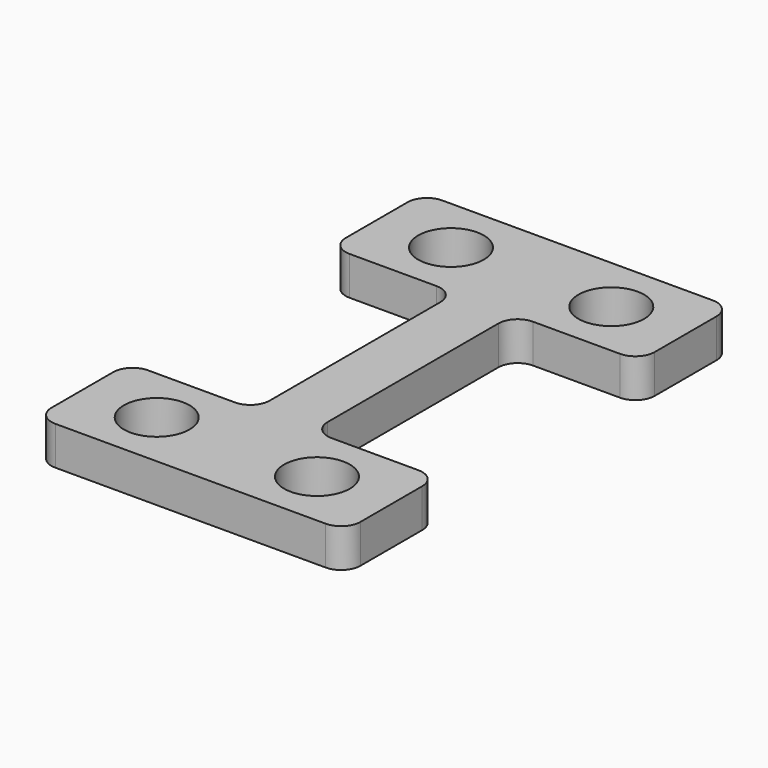
from build123d import *

# Parameters (mm, degrees)
F0_R     = 1.7
F1_DEPTH = 2


with BuildPart() as f1:
    # F0 (on Top) → F1 (new body)
    with BuildSketch(Plane.XY):
        with BuildLine():
            Line((1.5, -5.525), (1.5, 5.525))
            ThreePointArc((1.5, 5.525), (1.792893, 6.232107), (2.5, 6.525))
            Line((2.5, 6.525), (7, 6.525))
            ThreePointArc((7, 6.525), (7.707107, 6.817893), (8, 7.525))
            Line((8, 7.525), (8, 11.525))
            ThreePointArc((8, 11.525), (7.707107, 12.232107), (7, 12.525))
            Line((7, 12.525), (-7, 12.525))
            ThreePointArc((-7, 12.525), (-7.707107, 12.232107), (-8, 11.525))
            Line((-8, 11.525), (-8, 7.525))
            ThreePointArc((-8, 7.525), (-7.707107, 6.817893), (-7, 6.525))
            Line((-7, 6.525), (-2.5, 6.525))
            ThreePointArc((-2.5, 6.525), (-1.792893, 6.232107), (-1.5, 5.525))
            Line((-1.5, 5.525), (-1.5, -5.525))
            ThreePointArc((-1.5, -5.525), (-1.792893, -6.232107), (-2.5, -6.525))
            Line((-2.5, -6.525), (-7, -6.525))
            ThreePointArc((-7, -6.525), (-7.707107, -6.817893), (-8, -7.525))
            Line((-8, -7.525), (-8, -11.525))
            ThreePointArc((-8, -11.525), (-7.707107, -12.232107), (-7, -12.525))
            Line((-7, -12.525), (7, -12.525))
            ThreePointArc((7, -12.525), (7.707107, -12.232107), (8, -11.525))
            Line((8, -11.525), (8, -7.525))
            ThreePointArc((8, -7.525), (7.707107, -6.817893), (7, -6.525))
            Line((7, -6.525), (2.5, -6.525))
            ThreePointArc((2.5, -6.525), (1.792893, -6.232107), (1.5, -5.525))
        make_face()
        with Locations((-4.15, -9.525)):
            Circle(F0_R, mode=Mode.SUBTRACT)
        with Locations((4.15, -9.525)):
            Circle(F0_R, mode=Mode.SUBTRACT)
        with Locations((-4.15, 9.525)):
            Circle(F0_R, mode=Mode.SUBTRACT)
        with Locations((4.15, 9.525)):
            Circle(F0_R, mode=Mode.SUBTRACT)
    extrude(amount=F1_DEPTH)


solid = f1.part
